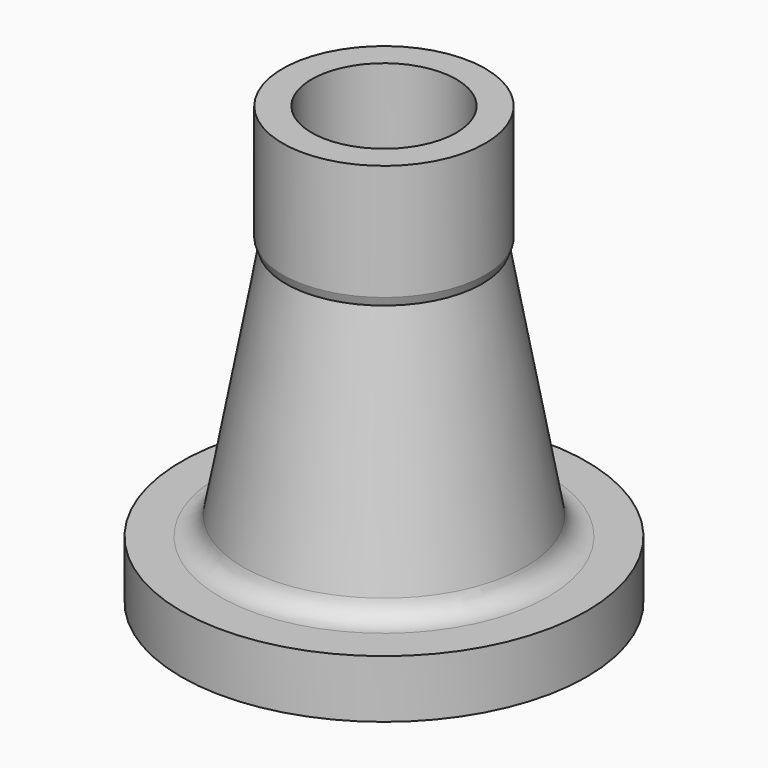
from build123d import *

# Parameters (mm, degrees)
F2_R = 2.032


with BuildPart() as f1:
    # F0 (on Front) → F1 (revolve)
    with BuildSketch(Plane.XZ):
        Polygon((12.7, -16.948941), (12.7, -17.710941), (17.78, -17.710941), (17.78, -12.630941), (12.7, -12.630941), (8.615561, 9.673507), (8.89, 10.451337), (8.89, 20.611337), (6.35, 20.611337), (6.35, 7.944194), (10.908485, -16.948941), align=None)
    revolve(axis=Axis((0, 0, -1.983079), (0, 0, -1)))

    # F2
    f2_edges = [f1.edges().sort_by_distance(p)[0] for p in [
        (-12.7, 0, -12.630941),
    ]]
    fillet(f2_edges, radius=F2_R)


solid = f1.part
